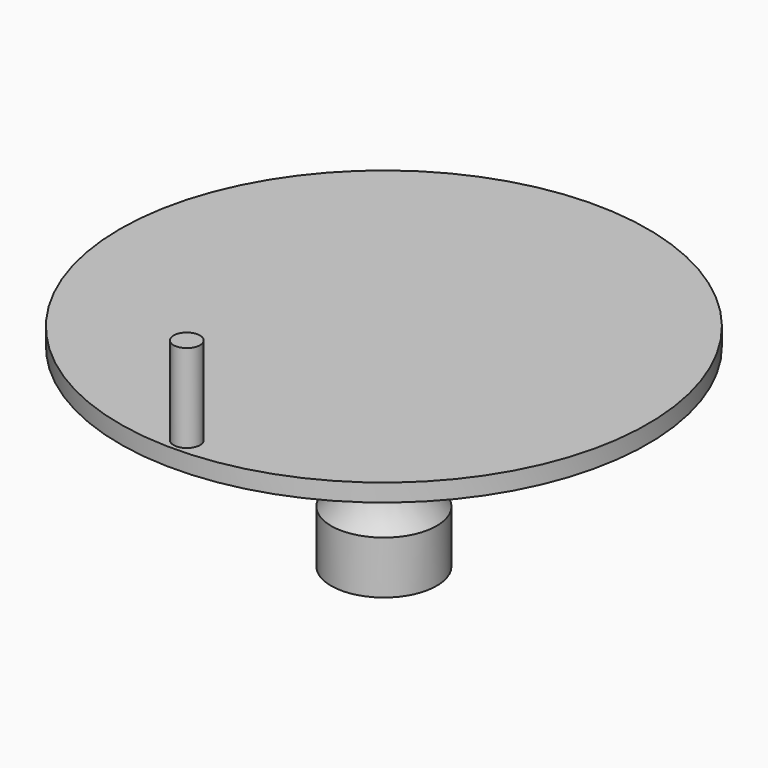
from build123d import *

# Parameters (mm, degrees)
F2_R     = 7.5
F3_DEPTH = 50


with BuildPart() as f1:
    # F0 (on Front) → F1 (revolve)
    with BuildSketch(Plane.XZ):
        with BuildLine():
            Line((-150, 0), (-30, 0))
            Line((-30, 0), (-30, -20))
            ThreePointArc((-30, -20), (-20.692105, -50), (-30, -80))
            Line((-30, -80), (-30, -110))
            Line((-30, -110), (0, -110))
            Line((0, -110), (0, 0))
            Line((0, 0), (0, 10))
            Line((0, 10), (-150, 10))
            Line((-150, 10), (-150, 0))
        make_face()
    revolve(axis=Axis((0, 0, -55), (0, 0, 1)))

    # F2 (on face) → F3 (join)
    with BuildSketch(Plane.XY.offset(10)):
        with Locations((0, -140)):
            Circle(F2_R)
    extrude(amount=F3_DEPTH)


solid = f1.part
